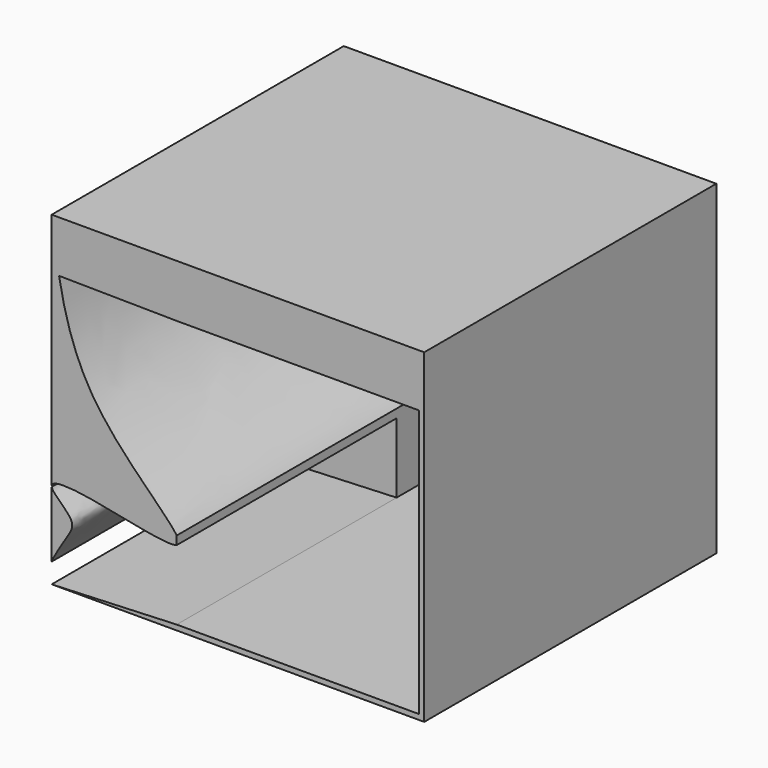
from build123d import *

# Parameters (mm, degrees)
F0_W      = 181.4180165529
F0_H      = 158.4694236517
F1_DEPTH  = 177.8
F2_T      = -2.54
F3_W      = 58.3408249235
F3_H      = 153.3894236517
F4_DEPTH  = 175.26
F5_W      = 117.9971916294
F5_H      = 23.1996511734
F6_DEPTH  = 175.26
F8_DEPTH  = 155.448
F9_DEPTH  = 21.59
F10_DEPTH = 21.59


with BuildPart() as f1:
    # F0 (on Front) → F1 (new body)
    with BuildSketch(Plane.XZ):
        Rectangle(F0_W, F0_H)
    extrude(amount=F1_DEPTH)

    # F2
    f2_openings = [f1.faces().sort_by_distance(p)[0] for p in [
        (0, -177.8, 0),
    ]]
    offset(amount=F2_T, openings=f2_openings)

    # F3 (on face) → F4 (join)
    with BuildSketch(Plane.XZ.offset(2.54)):
        with Locations((-58.9985958147, 0)):
            Rectangle(F3_W, F3_H)
    extrude(amount=F4_DEPTH)

    # F5 (on face) → F6 (join)
    with BuildSketch(Plane.XZ.offset(2.54)):
        with Locations((29.1704124618, 65.0948862392)):
            Rectangle(F5_W, F5_H)
    extrude(amount=F6_DEPTH)

    # F7 (on face) → F8 (cut)
    with BuildSketch(Plane.XZ.offset(177.8)):
        with BuildLine():
            Line((-29.8281833529, 53.4950606525), (-87.1266858607, 54.1800689548))
            add(Edge.make_bspline(
                [(-87.1266858607, 54.1800689548), (-84.1960310539, 37.7339910826), (-73.3918905439, 0.0733245961), (-35.1075253937, -30.5161568282), (-29.8281833529, -38.5061018169)],
                knots=[0.0711804972, 0.0711804972, 0.0711804972, 0.0711804972, 0.2125760889, 0.4036272484, 0.4036272484, 0.4036272484, 0.4036272484], degree=3))
            Line((-29.8281833529, -38.5061018169), (-29.8281833529, 53.4950606525))
        make_face()
        with BuildLine():
            Line((-29.8281833529, -76.6947118258), (-29.8281833529, -42.6409877837))
            add(Edge.make_bspline(
                [(-29.8281833529, -42.6409877837), (-35.4231693122, -44.7782083287), (-76.9735240129, -33.3987697863), (-96.3430681195, -35.7142988828), (-78.4077125974, -48.2869849637), (-82.5900483234, -55.7535374326), (-91.3199582214, -69.1015545227), (-90.8273371486, -70.6873939206), (-90.7090082765, -71.0683166981)],
                knots=[0.4534884255, 0.4534884255, 0.4534884255, 0.4534884255, 0.6260487265, 0.7112245832, 0.8039358777, 0.872883826, 0.969466362, 1, 1, 1, 1], degree=3))
            Line((-90.7090082765, -71.0683166981), (-90.7090082765, -79.2347118258))
            Line((-90.7090082765, -79.2347118258), (-29.8281833529, -76.6947118258))
        make_face()
        with BuildLine():
            add(Edge.make_bspline(
                [(-29.8281833529, -38.5061018169), (-28.4503628307, -40.5913446544), (-28.2115161111, -42.0234394165), (-29.8281833529, -42.6409877837)],
                knots=[0.4036272484, 0.4036272484, 0.4036272484, 0.4036272484, 0.4534884255, 0.4534884255, 0.4534884255, 0.4534884255], degree=3))
            Line((-29.8281833529, -38.5061018169), (-29.8281833529, -42.6409877837))
        make_face()
    extrude(amount=-F8_DEPTH, mode=Mode.SUBTRACT)

    # F9 (cut): a face of the model
    f9_faces = [f1.faces().sort_by_distance(p)[0] for p in [
        (-52.0616522206, -22.352, 20.2283924947),
    ]]
    extrude(f9_faces, amount=-F9_DEPTH, mode=Mode.SUBTRACT)

    # F10 (add): a face of the model
    f10_faces = [f1.faces().sort_by_distance(p)[0] for p in [
        (-59.9035044094, -22.352, -58.7218342299),
    ]]
    extrude(f10_faces, amount=F10_DEPTH)


solid = f1.part
